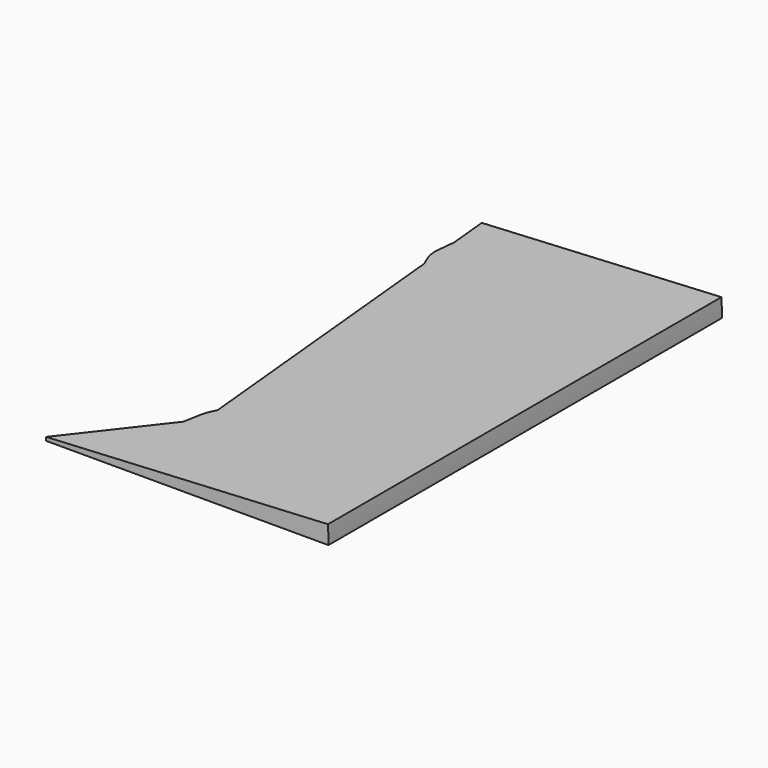
from build123d import *

# Parameters (mm, degrees)
F2_ANGLE = -3


with BuildPart() as f2:
    # F0 (on Top) → F2 (revolve)
    with BuildSketch(Plane.XY):
        with BuildLine():
            Line((78.484729, 110.643531), (24.494834, 110.643531))
            Line((24.494834, 110.643531), (25.41371, 101.776056))
            Line((25.41371, 101.776056), (24.978427, 97.828172))
            ThreePointArc((24.978427, 97.828172), (25.032056, 95.765517), (25.637103, 93.79287))
            Line((25.637103, 93.79287), (26.415183, 92.11149))
            Line((26.415183, 92.11149), (33.334714, 25.335597))
            Line((33.334714, 25.335597), (32.794166, 24.338627))
            ThreePointArc((32.794166, 24.338627), (32.331444, 23.310089), (32.025607, 22.224518))
            Line((32.025607, 22.224518), (31.226166, 18.291641))
            Line((31.226166, 18.291641), (14.984729, 0))
            Line((14.984729, 0), (78.484729, 0))
            Line((78.484729, 0), (78.484729, 110.643531))
        make_face()
    revolve(axis=Axis((0, 41.270431, 0), (0, 1, 0)), revolution_arc=F2_ANGLE)


solid = f2.part
